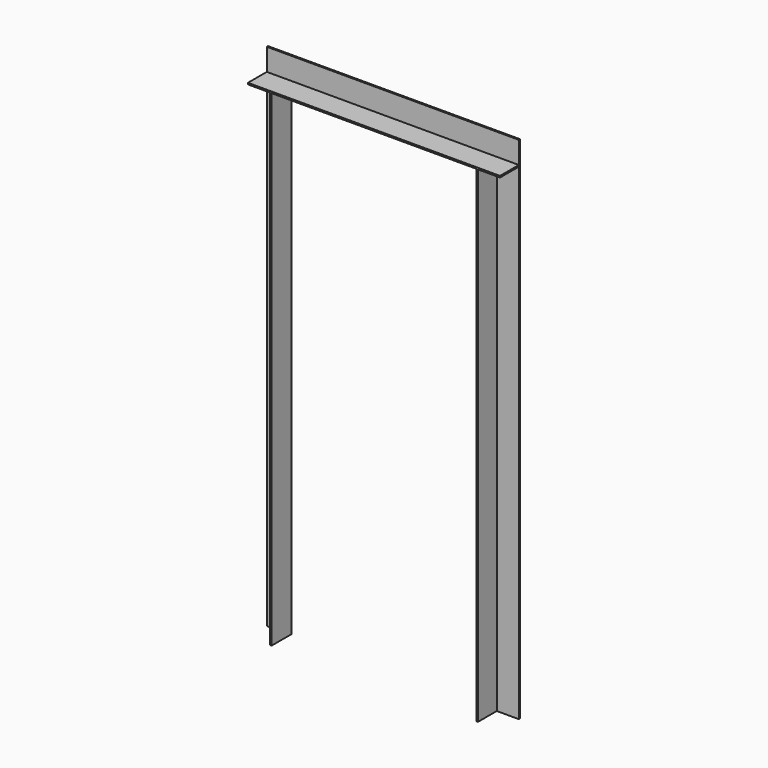
from build123d import *

# Parameters (mm, degrees)
F0_W     = 101.6
F0_H     = 2095.5
F1_DEPTH = 6.35
F2_W     = 6.35
F2_H     = 2095.5
F3_DEPTH = 101.6


with BuildPart() as f1:
    # F0 (on Front) → F1 (new body)
    with BuildSketch(Plane.XZ):
        Polygon((0, 2197.1), (0, 2095.5), (101.6, 2095.5), (984.25, 2095.5), (1085.85, 2095.5), (1085.85, 2197.1), align=None)
        with Locations((50.8, 1047.75)):
            Rectangle(F0_W, F0_H)
        with Locations((1035.05, 1047.75)):
            Rectangle(F0_W, F0_H)
    extrude(amount=F1_DEPTH)

    # F2 (on face) → F3 (join)
    with BuildSketch(Plane.XZ.offset(6.35)):
        Polygon((0, 2101.85), (0, 2095.5), (95.25, 2095.5), (101.6, 2095.5), (984.25, 2095.5), (990.6, 2095.5), (1085.85, 2095.5), (1085.85, 2101.85), align=None)
        with Locations((98.425, 1047.75)):
            Rectangle(F2_W, F2_H)
        with Locations((987.425, 1047.75)):
            Rectangle(F2_W, F2_H)
    extrude(amount=F3_DEPTH)


solid = f1.part
